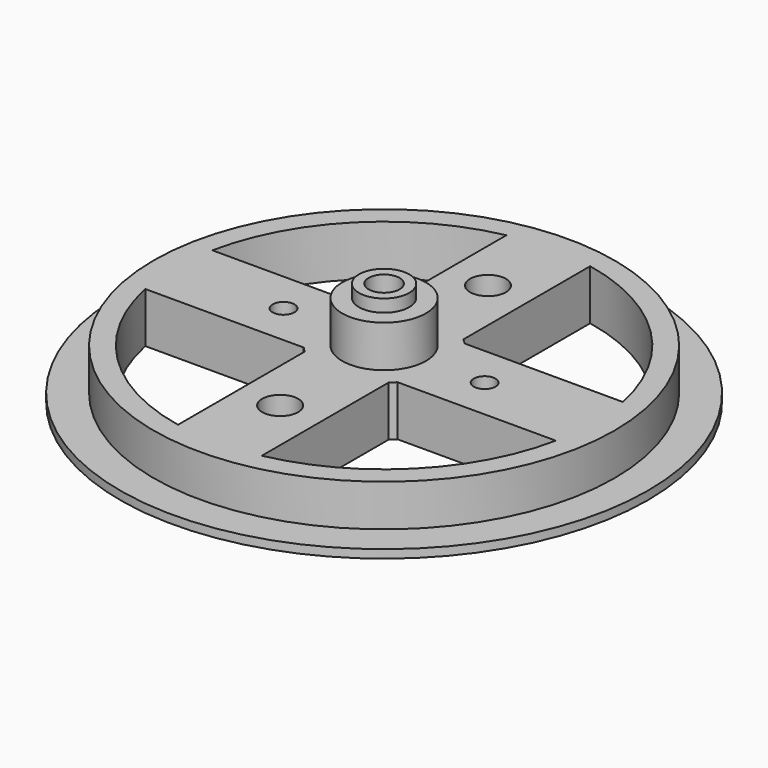
from build123d import *

# Parameters (mm, degrees)
F0_R      = 27.5
F1_DEPTH  = 5
F2_R      = 5
F3_DEPTH  = 5
F4_R      = 1.85
F5_DEPTH  = 10
F6_R      = 3
F6_R_2    = 1.85
F7_DEPTH  = 1.5
F9_DEPTH  = 5
F10_R     = 31.5
F10_R_2   = 27.5
F10_R_3   = 1.85
F11_DEPTH = 1
F8_R      = 1.3
F8_R_2    = 2.15
F12_DEPTH = 6


with BuildPart() as f1:
    # F0 (on Top) → F1 (new body)
    with BuildSketch(Plane.XY):
        Circle(F0_R)
    extrude(amount=F1_DEPTH)

    # F2 (on face) → F3 (join)
    with BuildSketch(Plane.XY.offset(5)):
        Circle(F2_R)
    extrude(amount=F3_DEPTH)

    # F4 (on face) → F5 (cut, through all)
    with BuildSketch(Plane.XY.offset(10)):
        Circle(F4_R)
    extrude(amount=-F5_DEPTH, mode=Mode.SUBTRACT)

    # F6 (on face) → F7 (join)
    with BuildSketch(Plane.XY.offset(10)):
        Circle(F6_R)
        Circle(F6_R_2, mode=Mode.SUBTRACT)
    extrude(amount=F7_DEPTH)

    # F8 (on face) → F9 (cut, through all)
    with BuildSketch(Plane.XY.offset(5)):
        with BuildLine():
            Line((5.5901699437, 5), (24.4948974278, 5))
            ThreePointArc((24.4948974278, 5), (17.6776695297, 17.6776695297), (5, 24.4948974278))
            Line((5, 24.4948974278), (5, 5.5901699437))
            ThreePointArc((5, 5.5901699437), (5.3033008589, 5.3033008589), (5.5901699437, 5))
        make_face()
        with BuildLine():
            Line((-5, 5.5901699437), (-5, 24.4948974278))
            ThreePointArc((-5, 24.4948974278), (-17.6776695297, 17.6776695297), (-24.4948974278, 5))
            Line((-24.4948974278, 5), (-5.5901699437, 5))
            ThreePointArc((-5.5901699437, 5), (-5.3033008589, 5.3033008589), (-5, 5.5901699437))
        make_face()
        with BuildLine():
            ThreePointArc((-24.4948974278, -5), (-17.6776695297, -17.6776695297), (-5, -24.4948974278))
            Line((-5, -24.4948974278), (-5, -5.5901699437))
            ThreePointArc((-5, -5.5901699437), (-5.3033008589, -5.3033008589), (-5.5901699437, -5))
            Line((-5.5901699437, -5), (-24.4948974278, -5))
        make_face()
        with BuildLine():
            ThreePointArc((5, -24.4948974278), (17.6776695297, -17.6776695297), (24.4948974278, -5))
            Line((24.4948974278, -5), (5.5901699437, -5))
            ThreePointArc((5.5901699437, -5), (5.3033008589, -5.3033008589), (5, -5.5901699437))
            Line((5, -5.5901699437), (5, -24.4948974278))
        make_face()
    extrude(amount=-F9_DEPTH, mode=Mode.SUBTRACT)

    # F10 (on face) → F11 (join)
    with BuildSketch(Plane(origin=(0, 0, 0), x_dir=(1, 0, 0), z_dir=(0, 0, -1))):
        Circle(F10_R)
        Circle(F10_R_2, mode=Mode.SUBTRACT)
        Circle(F10_R_2)
        with BuildLine():
            ThreePointArc((-5, -24.4948974278), (-17.6776695297, -17.6776695297), (-24.4948974278, -5))
            Line((-24.4948974278, -5), (-5.5901699437, -5))
            ThreePointArc((-5.5901699437, -5), (-5.3033008589, -5.3033008589), (-5, -5.5901699437))
            Line((-5, -5.5901699437), (-5, -24.4948974278))
        make_face(mode=Mode.SUBTRACT)
        with BuildLine():
            ThreePointArc((24.4948974278, -5), (17.6776695297, -17.6776695297), (5, -24.4948974278))
            Line((5, -24.4948974278), (5, -5.5901699437))
            ThreePointArc((5, -5.5901699437), (5.3033008589, -5.3033008589), (5.5901699437, -5))
            Line((5.5901699437, -5), (24.4948974278, -5))
        make_face(mode=Mode.SUBTRACT)
        with BuildLine():
            ThreePointArc((-24.4948974278, 5), (-17.6776695297, 17.6776695297), (-5, 24.4948974278))
            Line((-5, 24.4948974278), (-5, 5.5901699437))
            ThreePointArc((-5, 5.5901699437), (-5.3033008589, 5.3033008589), (-5.5901699437, 5))
            Line((-5.5901699437, 5), (-24.4948974278, 5))
        make_face(mode=Mode.SUBTRACT)
        Circle(F10_R_3, mode=Mode.SUBTRACT)
        with BuildLine():
            ThreePointArc((5, 24.4948974278), (17.6776695297, 17.6776695297), (24.4948974278, 5))
            Line((24.4948974278, 5), (5.5901699437, 5))
            ThreePointArc((5.5901699437, 5), (5.3033008589, 5.3033008589), (5, 5.5901699437))
            Line((5, 5.5901699437), (5, 24.4948974278))
        make_face(mode=Mode.SUBTRACT)
    extrude(amount=F11_DEPTH)

    # F8 (on face) → F12 (cut, through all)
    with BuildSketch(Plane.XY.offset(5)):
        with Locations((-12, 0)):
            Circle(F8_R)
        with Locations((0, -15.5)):
            Circle(F8_R_2)
        with Locations((12, 0)):
            Circle(F8_R)
        with Locations((0, 15.5)):
            Circle(F8_R_2)
    extrude(amount=-F12_DEPTH, mode=Mode.SUBTRACT)


solid = f1.part
